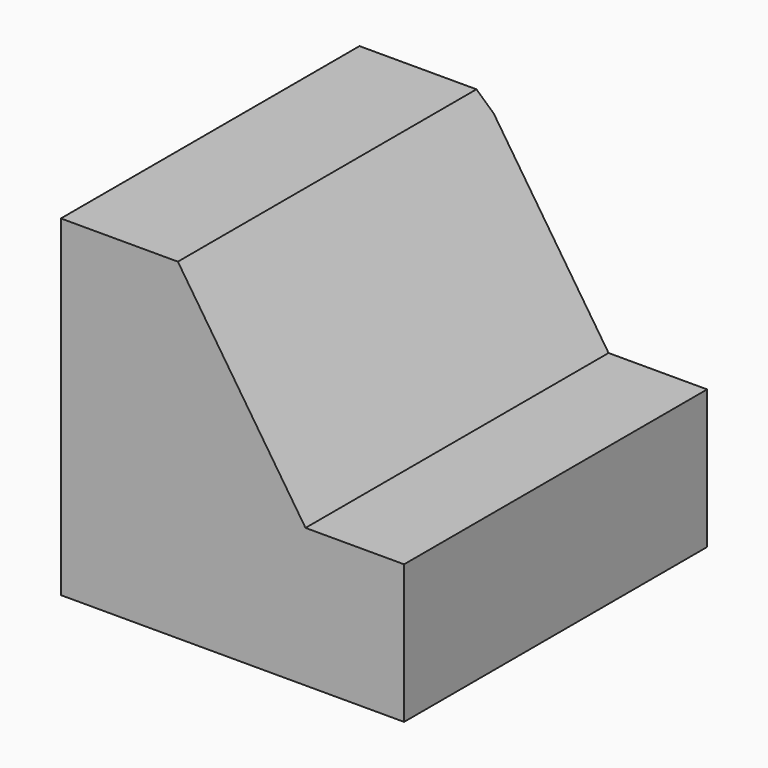
from build123d import *

# Parameters (mm, degrees)
F1_DEPTH = 76.708
F3_DEPTH = 88.392


with BuildPart() as f1:
    # F0 (on Right) → F1 (new body)
    with BuildSketch(Plane.YZ):
        Polygon((32.097038, 35.508316), (-51.324245, 35.508316), (-51.324245, -38.609475), (33.337504, -38.609475), (33.337504, 31.166688), align=None)
    extrude(amount=F1_DEPTH)

    # F2 (on face) → F3 (cut)
    with BuildSketch(Plane.XZ.offset(51.324245)):
        Polygon((76.708, 35.508316), (26.148705, 35.508316), (54.679401, -7.597849), (76.708, -7.597849), align=None)
    extrude(amount=-F3_DEPTH, mode=Mode.SUBTRACT)


solid = f1.part
